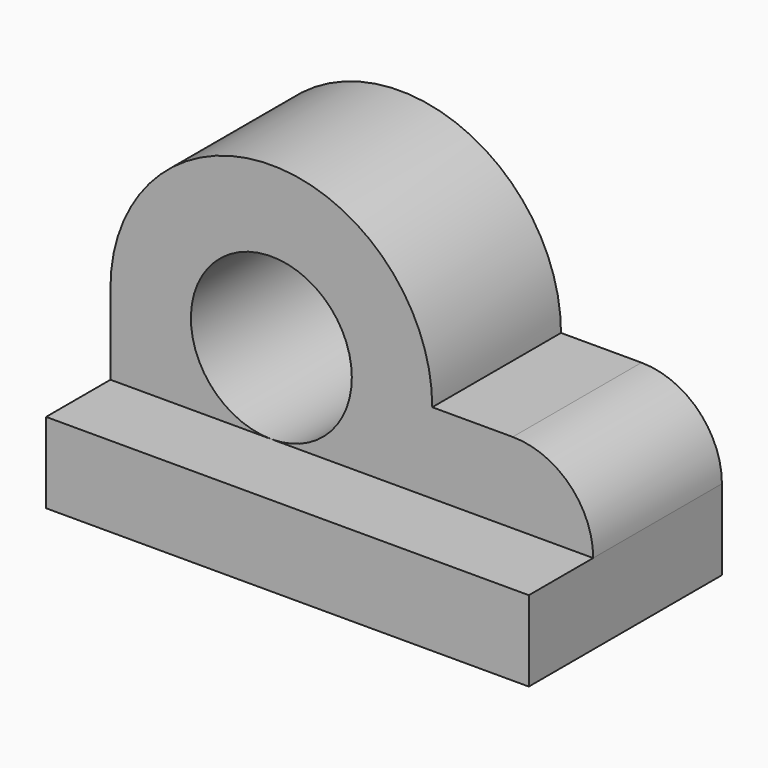
from build123d import *

# Parameters (mm, degrees)
F0_R     = 10
F1_DEPTH = 20
F3_DEPTH = 10


with BuildPart() as f1:
    # F0 (on Front) → F1 (new body)
    with BuildSketch(Plane.XZ):
        with BuildLine():
            Line((0, 20), (0, 0))
            Line((0, 0), (60, 0))
            Line((60, 0), (60, 10))
            ThreePointArc((60, 10), (57.071068, 17.071068), (50, 20))
            Line((50, 20), (40, 20))
            ThreePointArc((40, 20), (20, 40), (0, 20))
        make_face()
        with Locations((20, 20)):
            Circle(F0_R, mode=Mode.SUBTRACT)
    extrude(amount=F1_DEPTH)

    # F2 (on face) → F3 (join)
    with BuildSketch(Plane.XZ.offset(20)):
        Polygon((0, 10), (0, 0), (60, 0), (60, 10), (20, 10), align=None)
    extrude(amount=F3_DEPTH)


solid = f1.part
